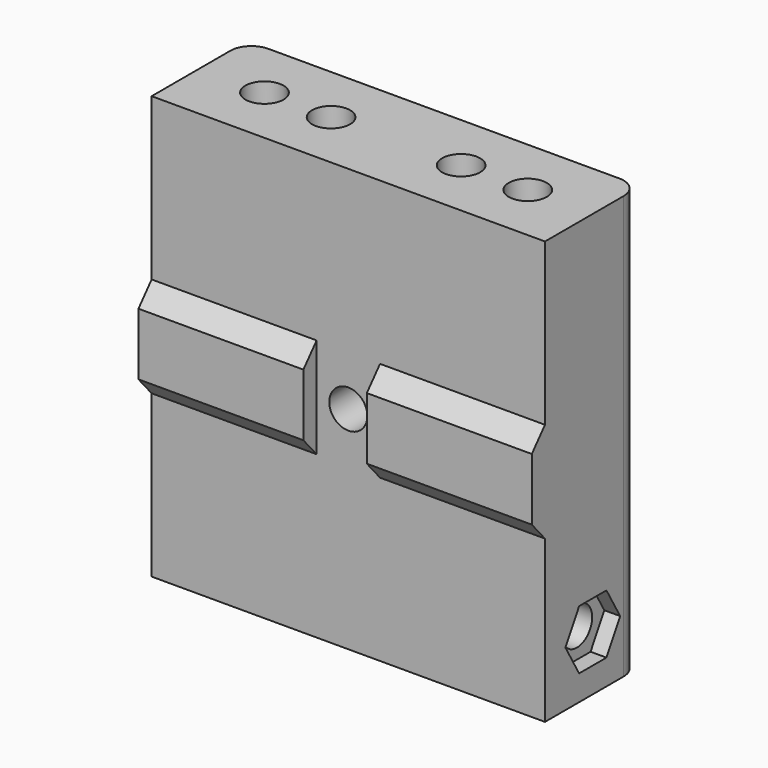
from build123d import *

# Parameters (mm, degrees)
SKETCH_W        = 37.2
SKETCH_H        = 11.3
PAD_DEPTH       = 40
SKETCH001_R     = 1.8
PAD001_DEPTH    = 2.5
PAD002_DEPTH    = 37.2
SKETCH003_R     = 1.8
POCKET_DEPTH    = 12.861
SKETCH004_W     = 6
SKETCH004_H     = 9.48
POCKET001_DEPTH = 1.56
SKETCH005_R     = 2.8
POCKET002_DEPTH = 4
SKETCH006_R     = 1.8
POCKET003_DEPTH = 37.201
POCKET004_DEPTH = 1.5
POCKET005_DEPTH = 1.5
FILLET_R        = 2
CHAMFER_SIZE    = 1.5


with BuildPart() as part:
    # Sketch → Pad (new body)
    with BuildSketch(Plane.XY):
        Rectangle(SKETCH_W, SKETCH_H)
        with BuildLine():
            ThreePointArc((-12.45, 3.15), (-15.6, 0), (-12.45, -3.15))
            Line((-12.45, -3.15), (-6.15, -3.15))
            ThreePointArc((-6.15, -3.15), (-3, 0), (-6.15, 3.15))
            Line((-6.15, 3.15), (-12.45, 3.15))
        make_face(mode=Mode.SUBTRACT)
        with BuildLine():
            ThreePointArc((12.45, -3.15), (15.6, 0), (12.45, 3.15))
            Line((12.45, 3.15), (6.15, 3.15))
            ThreePointArc((6.15, 3.15), (3, 0), (6.15, -3.15))
            Line((6.15, -3.15), (12.45, -3.15))
        make_face(mode=Mode.SUBTRACT)
    extrude(amount=PAD_DEPTH)

    # Sketch001 (on Face14 of Pad) → Pad001 (join)
    with BuildSketch(Plane.XY.offset(40)):
        with BuildLine():
            ThreePointArc((-12.45, 3.15), (-15.6, 0), (-12.45, -3.15))
            Line((-12.45, -3.15), (-6.15, -3.15))
            ThreePointArc((-6.15, -3.15), (-3, 0), (-6.15, 3.15))
            Line((-6.15, 3.15), (-12.45, 3.15))
        make_face()
        with Locations((-12.45, 0)):
            Circle(SKETCH001_R, mode=Mode.SUBTRACT)
        with Locations((-6.15, 0)):
            Circle(SKETCH001_R, mode=Mode.SUBTRACT)
        with BuildLine():
            ThreePointArc((12.45, -3.15), (15.6, 0), (12.45, 3.15))
            Line((12.45, 3.15), (6.15, 3.15))
            ThreePointArc((6.15, 3.15), (3, 0), (6.15, -3.15))
            Line((6.15, -3.15), (12.45, -3.15))
        make_face()
        with Locations((6.15, 0)):
            Circle(SKETCH001_R, mode=Mode.SUBTRACT)
        with Locations((12.45, 0)):
            Circle(SKETCH001_R, mode=Mode.SUBTRACT)
    extrude(amount=-PAD001_DEPTH)

    # Sketch002 (on Face3 of Pad001) → Pad002 (join)
    with BuildSketch(Plane.YZ.offset(18.6)):
        Polygon((-5.65, 24.74), (-5.65, 15.26), (-7.21, 17.06), (-7.21, 22.94), align=None)
    extrude(amount=-PAD002_DEPTH)

    # Sketch003 (on Face22 of Pad002) → Pocket (cut, through all)
    with BuildSketch(Plane.XZ.offset(7.21)):
        with Locations((0, 20)):
            Circle(SKETCH003_R)
    extrude(amount=-POCKET_DEPTH, mode=Mode.SUBTRACT)

    # Sketch004 (on Face21 of Pocket) → Pocket001 (cut)
    with BuildSketch(Plane.XZ.offset(7.21)):
        with Locations((0, 20)):
            Rectangle(SKETCH004_W, SKETCH004_H)
    extrude(amount=-POCKET001_DEPTH, mode=Mode.SUBTRACT)

    # Sketch005 (on Face1 of Pocket001) → Pocket002 (cut)
    with BuildSketch(Plane(origin=(0, 5.65, 0), x_dir=(-1, 0, 0), z_dir=(0, 1, 0))):
        with Locations((0, 20)):
            Circle(SKETCH005_R)
    extrude(amount=-POCKET002_DEPTH, mode=Mode.SUBTRACT)

    # Sketch006 (on Face5 of Pocket002) → Pocket003 (cut, through all)
    with BuildSketch(Plane.YZ.offset(18.6)):
        with Locations((0, 5.2)):
            Circle(SKETCH006_R)
    extrude(amount=-POCKET003_DEPTH, mode=Mode.SUBTRACT)

    # Sketch007 (on Face5 of Pocket003) → Pocket004 (cut)
    with BuildSketch(Plane.YZ.offset(18.6)):
        Polygon((1.616581, 8), (-1.616581, 8), (-3.233162, 5.2), (-1.616581, 2.4), (1.616581, 2.4), (3.233162, 5.2), align=None)
    extrude(amount=-POCKET004_DEPTH, mode=Mode.SUBTRACT)

    # Sketch008 (on Face2 of Pocket004) → Pocket005 (cut)
    with BuildSketch(Plane(origin=(-18.6, 0, 0), x_dir=(0, -1, 0), z_dir=(-1, 0, 0))):
        Polygon((1.616581, 8), (-1.616581, 8), (-3.233162, 5.2), (-1.616581, 2.4), (1.616581, 2.4), (3.233162, 5.2), align=None)
    extrude(amount=-POCKET005_DEPTH, mode=Mode.SUBTRACT)

    # Fillet
    fillet_edges = [part.edges().sort_by_distance(p)[0] for p in [
        (-18.6, 5.65, 20),
        (18.6, 5.65, 20),
    ]]
    fillet(fillet_edges, radius=FILLET_R)

    # Chamfer
    chamfer_edges = [part.edges().sort_by_distance(p)[0] for p in [
        (2.8, 5.65, 20),
    ]]
    chamfer(chamfer_edges, length=CHAMFER_SIZE)


solid = part.part
